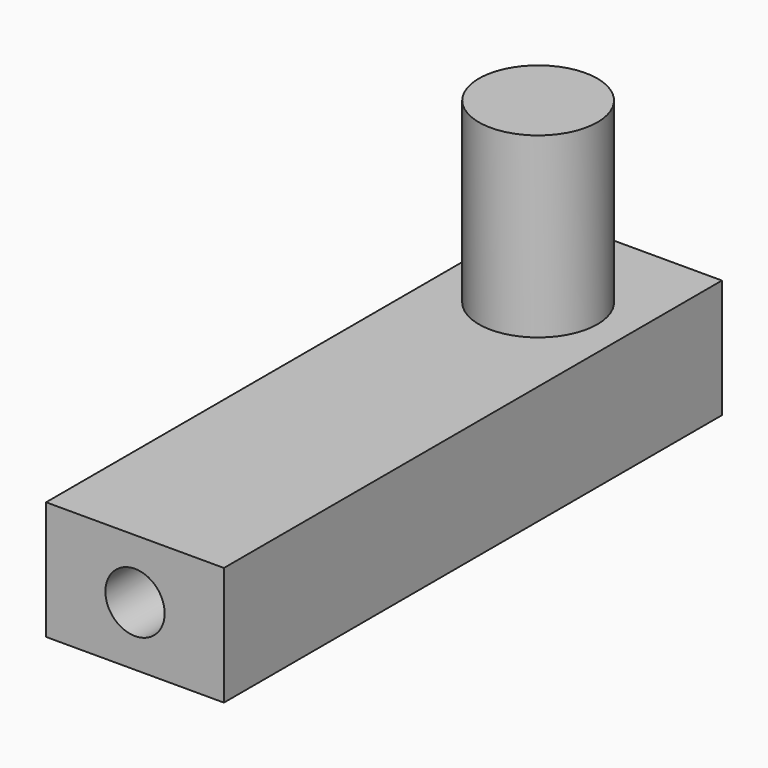
from build123d import *

# Parameters (mm, degrees)
F0_W     = 6
F0_H     = 21
F1_DEPTH = 4
F2_R     = 2
F3_DEPTH = 6
F4_R     = 1
F5_DEPTH = 4


with BuildPart() as f1:
    # F0 (on Top) → F1 (new body)
    with BuildSketch(Plane.XY):
        with Locations((-3, 10.5)):
            Rectangle(F0_W, F0_H)
    extrude(amount=F1_DEPTH)

    # F2 (on face) → F3 (join)
    with BuildSketch(Plane.XY.offset(4)):
        with Locations((-3, 17)):
            Circle(F2_R)
    extrude(amount=F3_DEPTH)

    # F4 (on face) → F5 (cut)
    with BuildSketch(Plane.XZ):
        with Locations((-3, 2)):
            Circle(F4_R)
    extrude(amount=-F5_DEPTH, mode=Mode.SUBTRACT)


solid = f1.part
